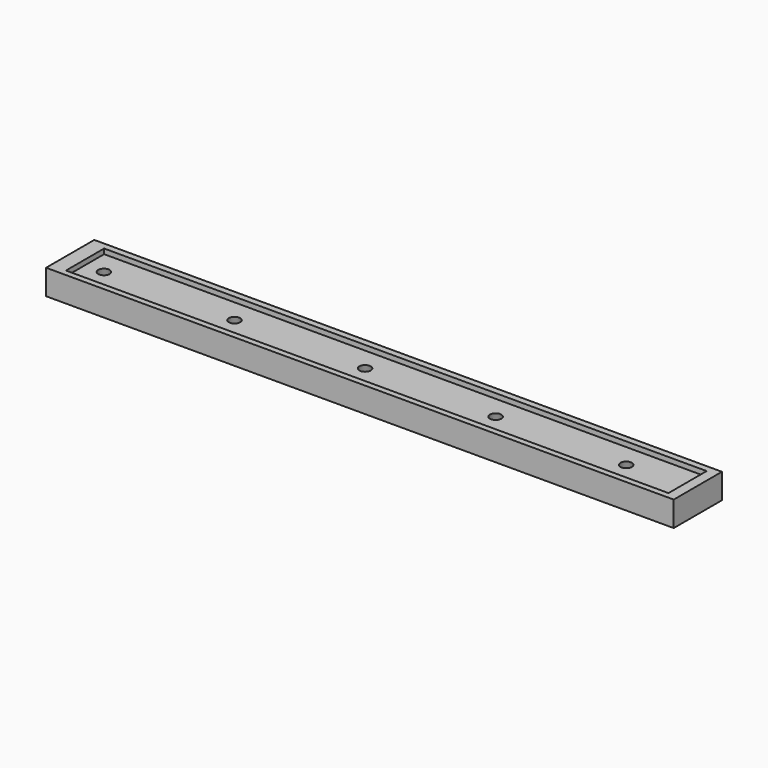
from build123d import *

# Parameters (mm, degrees)
F0_W     = 125
F0_H     = 12
F1_DEPTH = 5
F2_W     = 120
F2_H     = 9.5
F3_DEPTH = 1
F4_R     = 2.5887659848
F5_DEPTH = 5
F5_TAPER = 20


with BuildPart() as f1:
    # F0 (on Top) → F1 (new body)
    with BuildSketch(Plane.XY):
        with Locations((62.5, 6)):
            Rectangle(F0_W, F0_H)
    extrude(amount=F1_DEPTH)

    # F2 (on face) → F3 (cut)
    with BuildSketch(Plane.XY.offset(5)):
        with Locations((63, 5.95)):
            Rectangle(F2_W, F2_H)
    extrude(amount=-F3_DEPTH, mode=Mode.SUBTRACT)

    # F4 (on face) → F5 (cut)
    with BuildSketch(Plane(origin=(0, 0, 0), x_dir=(1, 0, 0), z_dir=(0, 0, -1))):
        with Locations((6.7181466147, -6.0111363418)):
            Circle(F4_R)
        with Locations((32.7181466147, -6.0111363418)):
            Circle(F4_R)
        with Locations((58.7181466147, -6.0111363418)):
            Circle(F4_R)
        with Locations((84.7181466147, -6.0111363418)):
            Circle(F4_R)
        with Locations((110.7181466147, -6.0111363418)):
            Circle(F4_R)
    extrude(amount=-F5_DEPTH, taper=F5_TAPER, mode=Mode.SUBTRACT)


solid = f1.part
